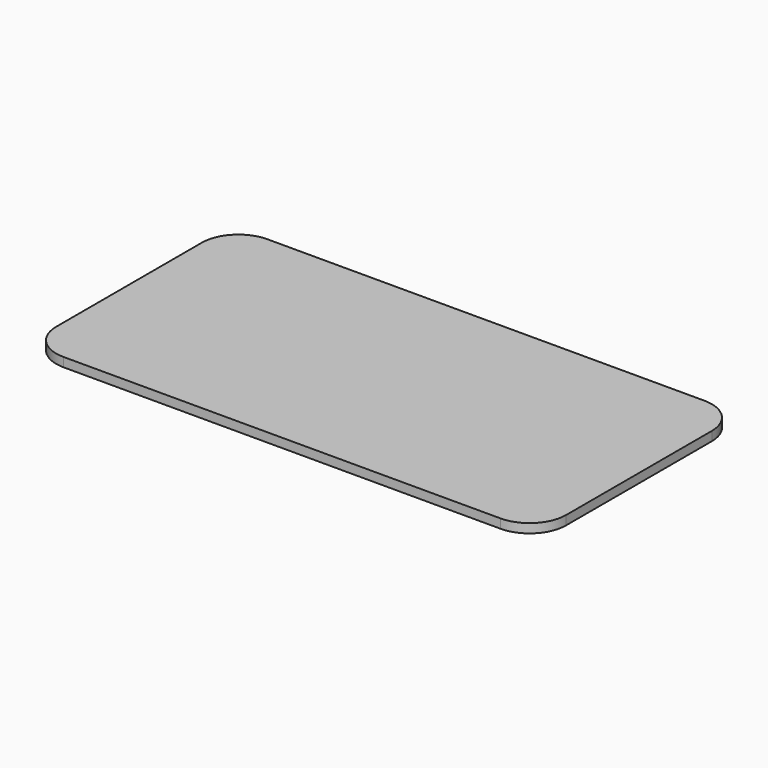
from build123d import *

# Parameters (mm, degrees)
F0_W     = 304.8
F0_H     = 125.8824
F1_DEPTH = 3.175
F2_W     = 355.6
F2_H     = 177.8
F3_DEPTH = 3.175
F4_R     = 25.4
F5_R     = 25.4
F6_R     = 25.4
F7_R     = 25.4


with BuildPart() as f1:
    # F0 (on Top) → F1 (new body, symmetric)
    with BuildSketch(Plane.XY):
        Rectangle(F0_W, F0_H)
    extrude(amount=F1_DEPTH, both=True)

    # F2 (on Top) → F3 (join, symmetric)
    with BuildSketch(Plane.XY):
        Rectangle(F2_W, F2_H)
    extrude(amount=F3_DEPTH, both=True)

    # F4
    f4_edges = [f1.edges().sort_by_distance(p)[0] for p in [
        (-177.8, 88.9, 0),
    ]]
    fillet(f4_edges, radius=F4_R)

    # F5
    f5_edges = [f1.edges().sort_by_distance(p)[0] for p in [
        (177.8, 88.9, 0),
    ]]
    fillet(f5_edges, radius=F5_R)

    # F6
    f6_edges = [f1.edges().sort_by_distance(p)[0] for p in [
        (177.8, -88.9, 0),
    ]]
    fillet(f6_edges, radius=F6_R)

    # F7
    f7_edges = [f1.edges().sort_by_distance(p)[0] for p in [
        (-177.8, -88.9, 0),
    ]]
    fillet(f7_edges, radius=F7_R)


solid = f1.part
